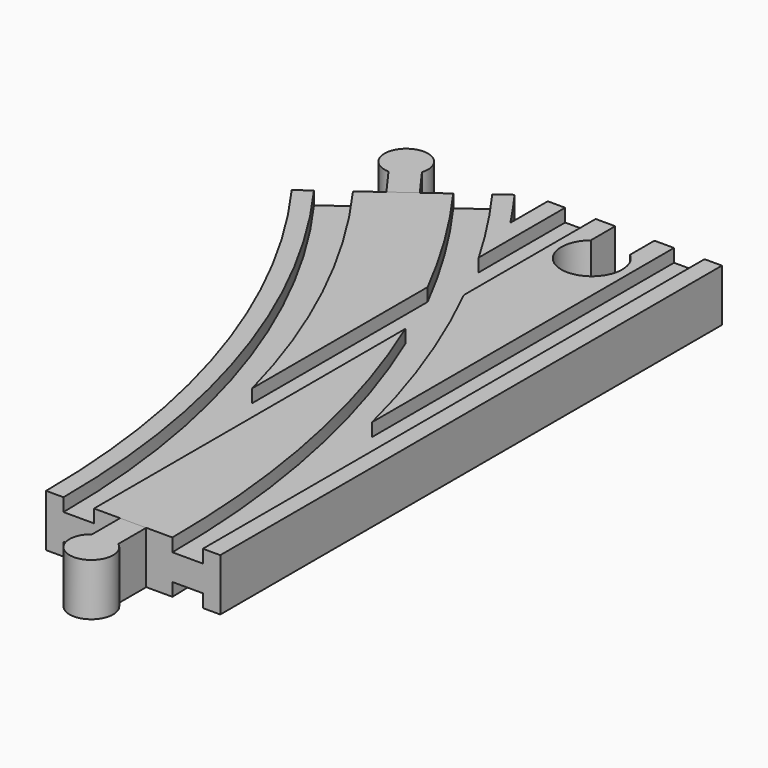
from build123d import *

# Parameters (mm, degrees)
SKETCH004_W       = 7
SKETCH004_H       = 3
SKETCH005_W       = 7
SKETCH005_H       = 3
SKETCH009_W       = 7
SKETCH009_H       = 3
SKETCH010_W       = 7
SKETCH010_H       = 3
POCKET_DEPTH      = 6.001
POCKET_DEPTH_BACK = -6.001
PAD_DEPTH         = 6
PAD002_DEPTH      = 6


with BuildPart() as body:
    # AdditivePipe: sweep along a path in Sketch002
    with BuildLine(Plane.XY) as additivepipe_path:
        ThreePointArc((0, 0), (-10.865453, 68.601773), (-42.398227, 130.488326))
    # Sketch → AdditivePipe (sweep)
    with BuildSketch(Plane.XZ):
        Polygon((-20, 6), (-20, -6), (-16, -6), (-16, -3), (-9, -3), (-9, -6), (9, -6), (9, -3), (16, -3), (16, -6), (20, -6), (20, 6), (16, 6), (16, 3), (9, 3), (9, 6), (-9, 6), (-9, 3), (-16, 3), (-16, 6), align=None)
    sweep(path=additivepipe_path.line)

    # AdditivePipe001: sweep along a path in Sketch001
    with BuildLine(Plane.XY) as additivepipe001_path:
        Line((0, 0), (0, 144))
    # Sketch → AdditivePipe001 (sweep)
    with BuildSketch(Plane.XZ):
        Polygon((-20, 6), (-20, -6), (-16, -6), (-16, -3), (-9, -3), (-9, -6), (9, -6), (9, -3), (16, -3), (16, -6), (20, -6), (20, 6), (16, 6), (16, 3), (9, 3), (9, 6), (-9, 6), (-9, 3), (-16, 3), (-16, 6), align=None)
    sweep(path=additivepipe001_path.line)

    # SubtractivePipe: sweep along a path in Sketch001
    with BuildLine(Plane.XY) as subtractivepipe_path:
        Line((0, 0), (0, 144))
    # Sketch004 → SubtractivePipe (sweep, cut)
    with BuildSketch(Plane.XZ):
        with Locations((-12.5, 4.5)):
            Rectangle(SKETCH004_W, SKETCH004_H)
    sweep(path=subtractivepipe_path.line, mode=Mode.SUBTRACT)

    # SubtractivePipe001: sweep along a path in Sketch002
    with BuildLine(Plane.XY) as subtractivepipe001_path:
        ThreePointArc((0, 0), (-10.865453, 68.601773), (-42.398227, 130.488326))
    # Sketch004 → SubtractivePipe001 (sweep, cut)
    with BuildSketch(Plane.XZ):
        with Locations((-12.5, 4.5)):
            Rectangle(SKETCH004_W, SKETCH004_H)
    sweep(path=subtractivepipe001_path.line, mode=Mode.SUBTRACT)

    # SubtractivePipe002: sweep along a path in Sketch002
    with BuildLine(Plane.XY) as subtractivepipe002_path:
        ThreePointArc((0, 0), (-10.865453, 68.601773), (-42.398227, 130.488326))
    # Sketch005 (on Face1 of SubtractivePipe001) → SubtractivePipe002 (sweep, cut)
    with BuildSketch(Plane.XZ):
        with Locations((12.5, 4.5)):
            Rectangle(SKETCH005_W, SKETCH005_H)
    sweep(path=subtractivepipe002_path.line, mode=Mode.SUBTRACT)

    # SubtractivePipe003: sweep along a path in Sketch001
    with BuildLine(Plane.XY) as subtractivepipe003_path:
        Line((0, 0), (0, 144))
    # Sketch005 (on Face1 of SubtractivePipe001) → SubtractivePipe003 (sweep, cut)
    with BuildSketch(Plane.XZ):
        with Locations((12.5, 4.5)):
            Rectangle(SKETCH005_W, SKETCH005_H)
    subtractivepipe003 = sweep(path=subtractivepipe003_path.line, mode=Mode.SUBTRACT)

    # Mirrored: SubtractivePipe003 across XY
    add(subtractivepipe003.mirror(Plane.XY), mode=Mode.SUBTRACT)

    # SubtractivePipe004: sweep along a path in Sketch002
    with BuildLine(Plane.XY) as subtractivepipe004_path:
        ThreePointArc((0, 0), (-10.865453, 68.601773), (-42.398227, 130.488326))
    # Sketch009 → SubtractivePipe004 (sweep, cut)
    with BuildSketch(Plane.XZ):
        with Locations((-12.5, -4.5)):
            Rectangle(SKETCH009_W, SKETCH009_H)
    sweep(path=subtractivepipe004_path.line, mode=Mode.SUBTRACT)

    # SubtractivePipe005: sweep along a path in Sketch001
    with BuildLine(Plane.XY) as subtractivepipe005_path:
        Line((0, 0), (0, 144))
    # Sketch009 → SubtractivePipe005 (sweep, cut)
    with BuildSketch(Plane.XZ):
        with Locations((-12.5, -4.5)):
            Rectangle(SKETCH009_W, SKETCH009_H)
    sweep(path=subtractivepipe005_path.line, mode=Mode.SUBTRACT)

    # SubtractivePipe006: sweep along a path in Sketch002
    with BuildLine(Plane.XY) as subtractivepipe006_path:
        ThreePointArc((0, 0), (-10.865453, 68.601773), (-42.398227, 130.488326))
    # Sketch010 (on Face1 of SubtractivePipe005) → SubtractivePipe006 (sweep, cut)
    with BuildSketch(Plane.XZ):
        with Locations((12.5, -4.5)):
            Rectangle(SKETCH010_W, SKETCH010_H)
    sweep(path=subtractivepipe006_path.line, mode=Mode.SUBTRACT)

    # Sketch013 → Pocket (cut, two sides)
    with BuildSketch(Plane.XY) as pocket_sk:
        with BuildLine():
            Line((-4.5, 144), (4.5, 144))
            Line((4.5, 144), (4.5, 137))
            ThreePointArc((-4.5, 137), (0, 124.638097), (4.5, 137))
            Line((-4.5, 144), (-4.5, 137))
        make_face()
    extrude(amount=-POCKET_DEPTH, mode=Mode.SUBTRACT)
    extrude(pocket_sk.sketch, amount=-POCKET_DEPTH_BACK, mode=Mode.SUBTRACT)


with BuildPart() as body001:
    # Sketch008 → Pad (new body, symmetric)
    with BuildSketch(Plane.XY):
        with BuildLine():
            Line((-3, 0), (3, 0))
            Line((3, 0), (3, -8))
            ThreePointArc((-3, -8), (0, -17), (3, -8))
            Line((-3, 0), (-3, -8))
        make_face()
    extrude(amount=PAD_DEPTH, both=True)


with BuildPart() as body003:
    # Sketch012 → Pad002 (new body, symmetric)
    with BuildSketch(Plane.XY):
        with BuildLine():
            Line((-44.825278, 128.72497), (-39.971176, 132.251682))
            Line((-39.971176, 132.251682), (-44.673458, 138.723818))
            ThreePointArc((-44.673458, 138.723818), (-52.390577, 144.241615), (-49.52756, 135.197106))
            Line((-44.825278, 128.72497), (-49.52756, 135.197106))
        make_face()
    extrude(amount=PAD002_DEPTH, both=True)


solid = Compound([body.part, body001.part, body003.part])
